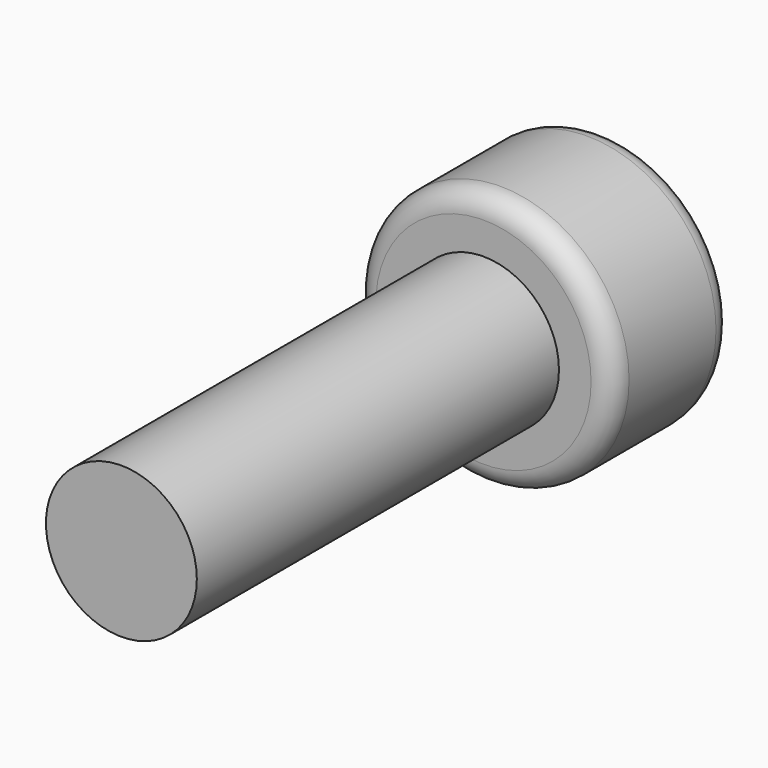
from build123d import *

# Parameters (mm, degrees)
F0_R     = 2.5
F1_DEPTH = 15
F0_R_2   = 4.265
F2_DEPTH = 5
F4_DEPTH = 3
F5_R     = 0.7


with BuildPart() as f1:
    # F0 (on Front) → F1 (new body)
    with BuildSketch(Plane.XZ):
        Circle(F0_R)
    extrude(amount=F1_DEPTH)

    # F0 (on Front) → F2 (join)
    with BuildSketch(Plane.XZ):
        Circle(F0_R_2)
        Circle(F0_R, mode=Mode.SUBTRACT)
        Circle(F0_R)
    extrude(amount=-F2_DEPTH)

    # F3 (on face) → F4 (cut)
    with BuildSketch(Plane(origin=(0, 5, 0), x_dir=(-1, 0, 0), z_dir=(0, 1, 0))):
        Polygon((2, 1.154701), (0, 2.309401), (-2, 1.154701), (-2, -1.154701), (0, -2.309401), (2, -1.154701), align=None)
    extrude(amount=-F4_DEPTH, mode=Mode.SUBTRACT)

    # F5
    f5_edges = [f1.edges().sort_by_distance(p)[0] for p in [
        (-4.265, 5, 0),
        (-4.265, 0, 0),
    ]]
    fillet(f5_edges, radius=F5_R)


solid = f1.part
